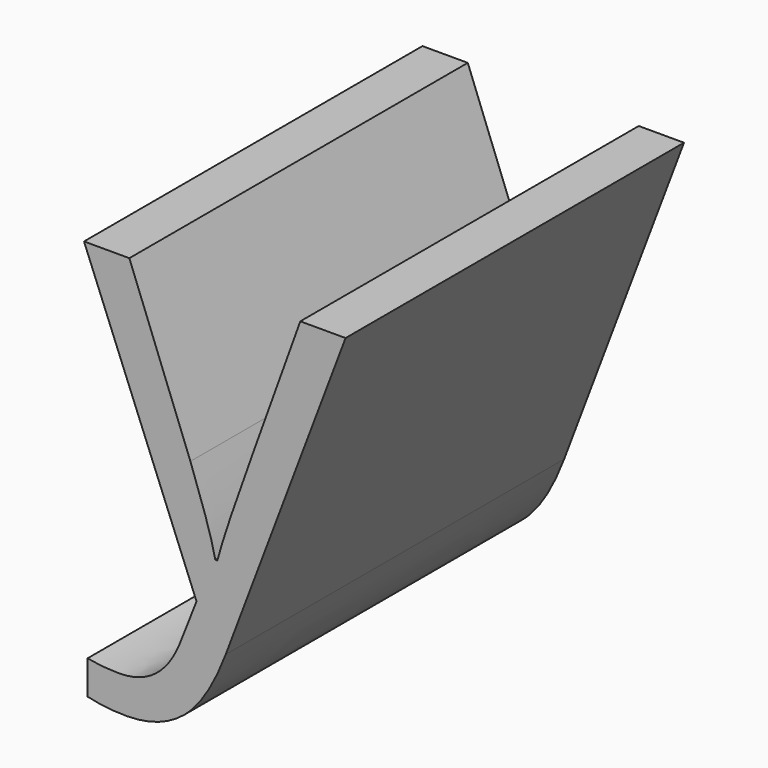
from build123d import *

# Parameters (mm, degrees)
F1_DEPTH = 75


with BuildPart() as f1:
    # F0 (on Front) → F1 (new body)
    with BuildSketch(Plane.XZ):
        with BuildLine():
            Line((-0.8514749497, 20.9117052582), (-8.8899977272, 20.9117052582))
            Line((-8.8899977272, 20.9117052582), (11.0547751246, -28.7914768705))
            Line((11.0547751246, -28.7914768705), (8.2982978347, -35.819772369))
            add(Edge.make_bspline(
                [(-2.7131795068, -44.4788633322), (5.0078432687, -44.4788633322), (8.2982978347, -35.819772369)],
                knots=[0, 0, 0, 1, 1, 1], degree=2))
            add(Edge.make_bspline(
                [(-8.2549977233, -43.9448860561), (-5.7727249805, -44.4788633322), (-2.7131795068, -44.4788633322)],
                knots=[0, 0, 0, 1, 1, 1], degree=2))
            Line((-8.2549977233, -43.9448860561), (-8.2549977233, -49.934090639))
            add(Edge.make_bspline(
                [(-1.4864749537, -50.7134088257), (-4.9212477024, -50.7134088257), (-8.2549977233, -49.934090639)],
                knots=[0, 0, 0, 1, 1, 1], degree=2))
            add(Edge.make_bspline(
                [(8.8611387473, -47.2136928947), (4.6470478119, -50.7134088257), (-1.4864749537, -50.7134088257)],
                knots=[0, 0, 0, 1, 1, 1], degree=2))
            add(Edge.make_bspline(
                [(16.2357978843, -35.3723860026), (13.0752296827, -43.7139769638), (8.8611387473, -47.2136928947)],
                knots=[0, 0, 0, 1, 1, 1], degree=2))
            Line((16.2357978843, -35.3723860026), (37.4794343807, 20.9117052582))
            Line((37.4794343807, 20.9117052582), (29.4553434214, 20.9117052582))
            add(Edge.make_bspline(
                [(17.2027297085, -13.3349995012), (19.0788660839, -7.7643176483), (29.4553434214, 20.9117052582)],
                knots=[0, 0, 0, 1, 1, 1], degree=2))
            add(Edge.make_bspline(
                [(14.7493206023, -21.2147722777), (15.3265933332, -18.9056813542), (17.2027297085, -13.3349995012)],
                knots=[0, 0, 0, 1, 1, 1], degree=2))
            Line((14.7493206023, -21.2147722777), (14.3885251455, -21.2147722777))
            add(Edge.make_bspline(
                [(9.9723887542, -7.273635827), (13.5226160492, -16.928522251), (14.3885251455, -21.2147722777)],
                knots=[0, 0, 0, 1, 1, 1], degree=2))
            Line((9.9723887542, -7.273635827), (-0.8514749497, 20.9117052582))
        make_face()
    extrude(amount=F1_DEPTH)


solid = f1.part
